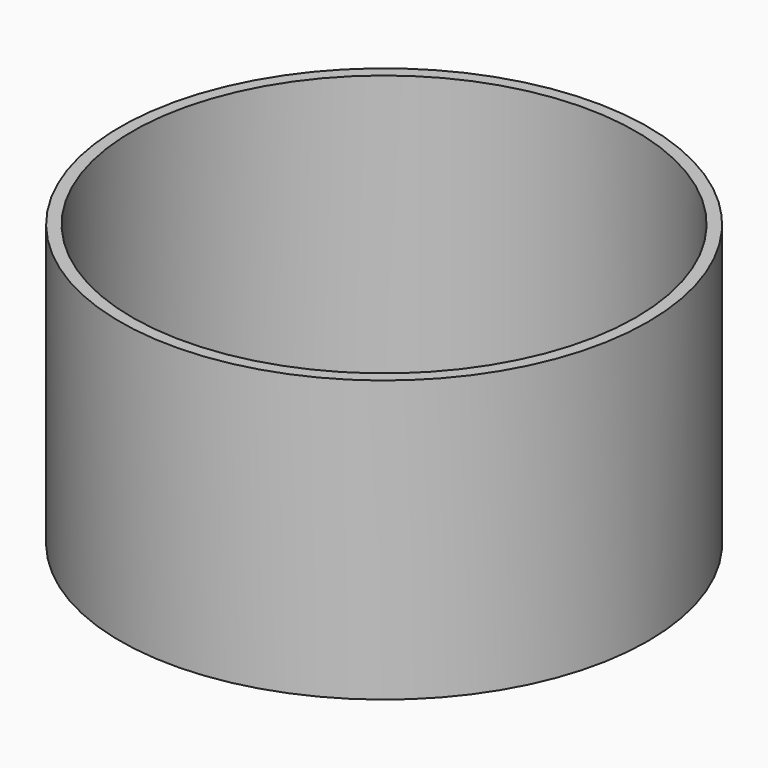
from build123d import *

# Parameters (mm, degrees)
F0_R     = 52.8280851984
F1_DEPTH = 56.388
F2_T     = 2.54


with BuildPart() as f1:
    # F0 (on Top) → F1 (new body)
    with BuildSketch(Plane.XY):
        Circle(F0_R)
    extrude(amount=F1_DEPTH)

    # F2
    f2_openings = [f1.faces().sort_by_distance(p)[0] for p in [
        (0, 0, 56.388),
    ]]
    offset(amount=F2_T, openings=f2_openings, kind=Kind.INTERSECTION)


solid = f1.part
